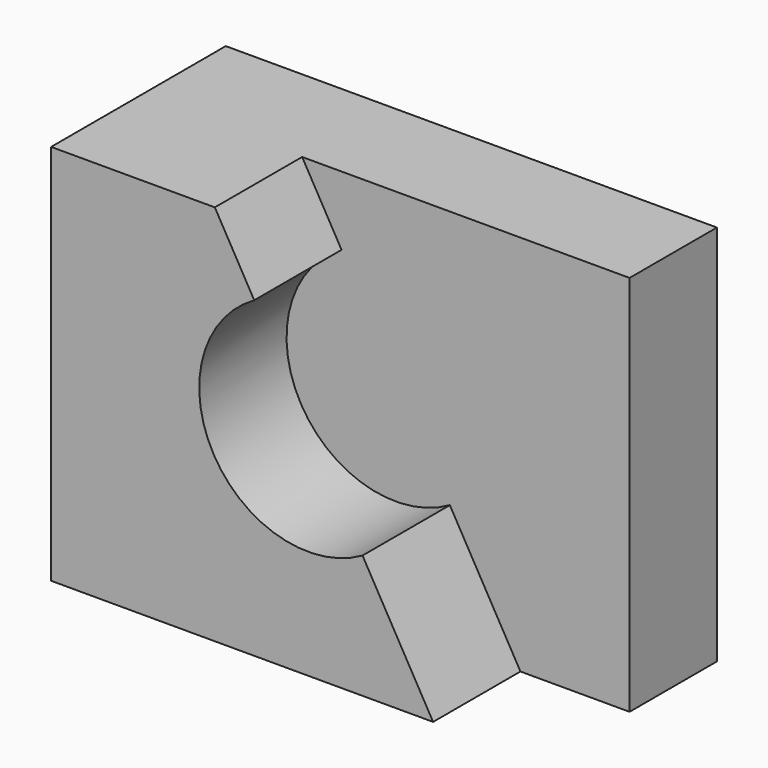
from build123d import *

# Parameters (mm, degrees)
F0_W     = 57.15
F0_H     = 44.45
F1_DEPTH = 25.4
F3_DEPTH = 12.7
F5_DEPTH = 12.7


with BuildPart() as f1:
    # F0 (on Front) → F1 (new body)
    with BuildSketch(Plane.XZ):
        with Locations((28.575, 22.225)):
            Rectangle(F0_W, F0_H)
    extrude(amount=F1_DEPTH)

    # F2 (on face) → F3 (cut)
    with BuildSketch(Plane.XZ.offset(25.4)):
        Polygon((57.15, 44.45), (19.05, 44.45), (44.45, 0), (57.15, 0), align=None)
    extrude(amount=-F3_DEPTH, mode=Mode.SUBTRACT)

    # F4 (on face) → F5 (cut)
    with BuildSketch(Plane.XZ.offset(25.4)):
        with BuildLine():
            Line((36.236679, 14.373312), (23.63475, 36.426688))
            ThreePointArc((23.63475, 36.426688), (18.909026, 19.099035), (36.236679, 14.373312))
        make_face()
    extrude(amount=-F5_DEPTH, mode=Mode.SUBTRACT)


solid = f1.part
